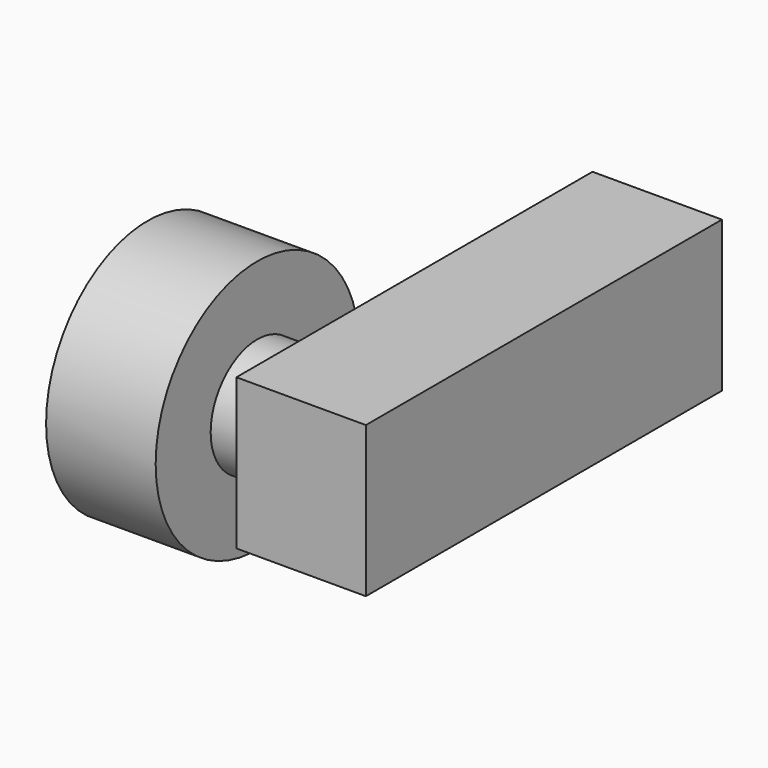
from build123d import *

# Parameters (mm, degrees)
F0_W     = 18.9000009559
F0_H     = 64.9800021201
F1_DEPTH = 22
F2_R     = 8.5
F3_DEPTH = 7
F4_R     = 18.539660173
F4_R_2   = 8.5
F5_DEPTH = 16


with BuildPart() as f1:
    # F0 (on Top) → F1 (new body)
    with BuildSketch(Plane.XY):
        with Locations((-2.5199998636, 9.6300011501)):
            Rectangle(F0_W, F0_H)
    extrude(amount=F1_DEPTH)

    # F2 (on face) → F3 (join)
    with BuildSketch(Plane(origin=(-11.9700003415, 0, 0), x_dir=(0, -1, 0), z_dir=(-1, 0, 0))):
        with Locations((10.3100002706, 11)):
            Circle(F2_R)
    extrude(amount=F3_DEPTH)


with BuildPart() as f5:
    # F4 (on face) → F5 (new body)
    with BuildSketch(Plane(origin=(-18.9700003415, 0, 0), x_dir=(0, -1, 0), z_dir=(-1, 0, 0))):
        with Locations((10.3100002706, 11)):
            Circle(F4_R)
        with Locations((10.3100002706, 11)):
            Circle(F4_R_2, mode=Mode.SUBTRACT)
    extrude(amount=F5_DEPTH)


solid = Compound([f1.part, f5.part])
